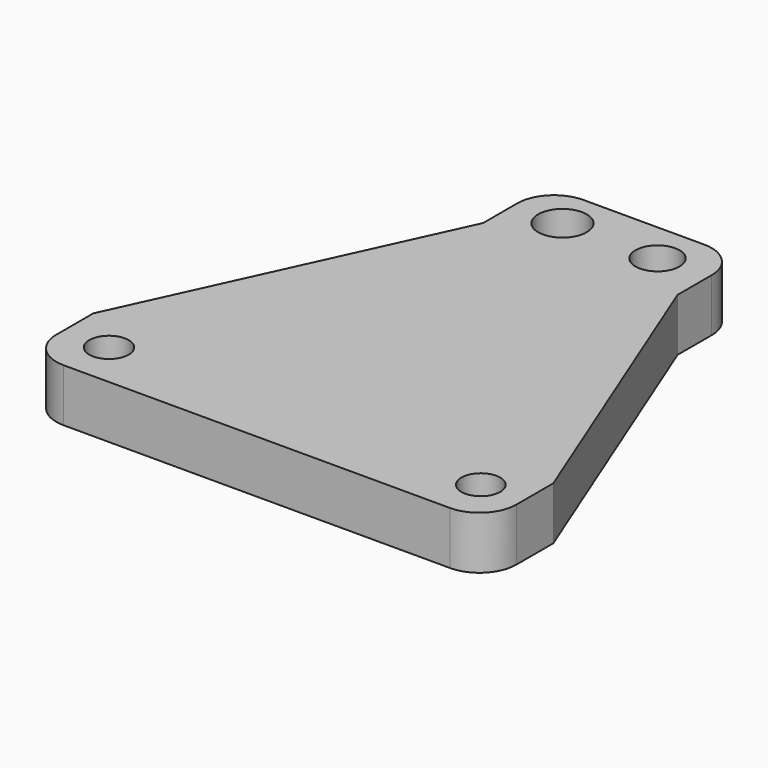
from build123d import *

# Parameters (mm, degrees)
F1_DEPTH = 7.29556
F2_R     = 3.352676
F2_R_2   = 3.043736
F3_DEPTH = 25.4
F4_R     = 2.721631
F4_R_2   = 2.684235
F5_DEPTH = 25.4
F6_R     = 5.08
F7_R     = 5.08


with BuildPart() as f1:
    # F0 (on Top) → F1 (new body)
    with BuildSketch(Plane.XY):
        Polygon((-57.594109, -42.704724), (-57.594109, -54.158099), (5.890307, -54.158099), (5.890307, -42.704724), (-11.126135, 0), (-11.126135, 10.962515), (-37.959754, 10.962515), (-37.959754, 0), align=None)
    extrude(amount=F1_DEPTH)

    # F2 (on Top) → F3 (cut)
    with BuildSketch(Plane.XY):
        with Locations((-31.249143, 5.297316)):
            Circle(F2_R)
        with Locations((-18.129976, 5.297316)):
            Circle(F2_R_2)
    extrude(amount=F3_DEPTH, mode=Mode.SUBTRACT)

    # F4 (on Top) → F5 (cut)
    with BuildSketch(Plane.XY):
        with Locations((-51.31226, -47.847249)):
            Circle(F4_R)
        with Locations((0, -47.847249)):
            Circle(F4_R_2)
    extrude(amount=F5_DEPTH, mode=Mode.SUBTRACT)

    # F6
    f6_edges = [f1.edges().sort_by_distance(p)[0] for p in [
        (-57.594109, -54.158099, 3.64778),
        (5.890307, -54.158099, 3.64778),
    ]]
    fillet(f6_edges, radius=F6_R)

    # F7
    f7_edges = [f1.edges().sort_by_distance(p)[0] for p in [
        (-37.959754, 10.962515, 3.64778),
        (-11.126135, 10.962515, 3.64778),
    ]]
    fillet(f7_edges, radius=F7_R)


solid = f1.part
